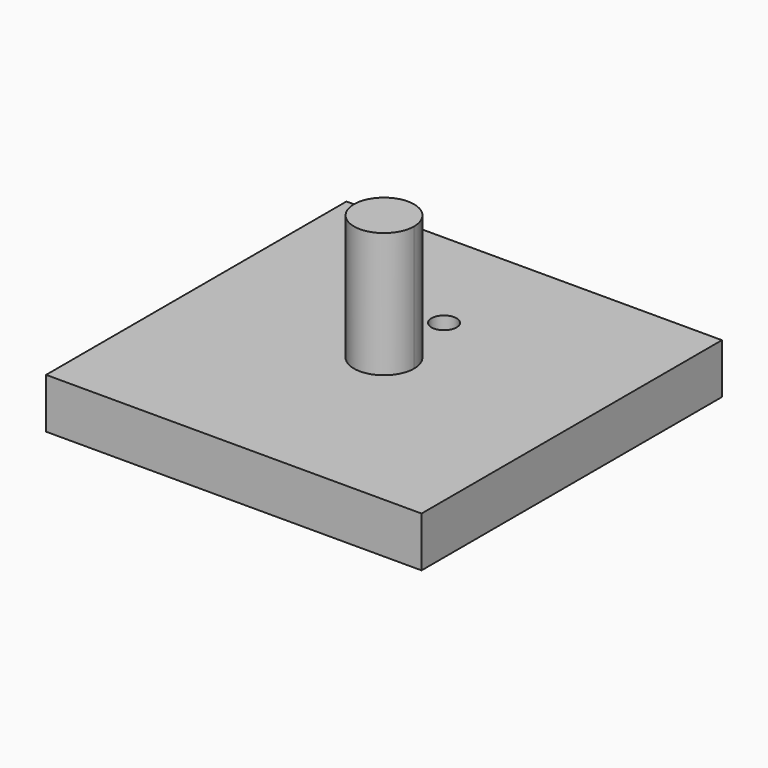
from build123d import *

# Parameters (mm, degrees)
F0_W     = 75
F0_H     = 75
F1_DEPTH = 10
F3_DEPTH = 25
F4_DEPTH = 10


with BuildPart() as f1:
    # F0 (on Top) → F1 (new body)
    with BuildSketch(Plane.XY):
        Rectangle(F0_W, F0_H)
    extrude(amount=F1_DEPTH)

    # F2 (on face) → F3 (join)
    with BuildSketch(Plane.XY.offset(10)):
        with BuildLine():
            ThreePointArc((0, 6), (-4.242641, -4.242641), (6, 0))
            ThreePointArc((6, 0), (4.242641, 4.242641), (0, 6))
        make_face()
    extrude(amount=F3_DEPTH)

    # F2 (on face) → F4 (cut)
    with BuildSketch(Plane.XY.offset(10)):
        with BuildLine():
            ThreePointArc((2.5, 15), (-1.767767, 16.767767), (0, 12.5))
            ThreePointArc((0, 12.5), (1.767767, 13.232233), (2.5, 15))
        make_face()
    extrude(amount=-F4_DEPTH, mode=Mode.SUBTRACT)


solid = f1.part
